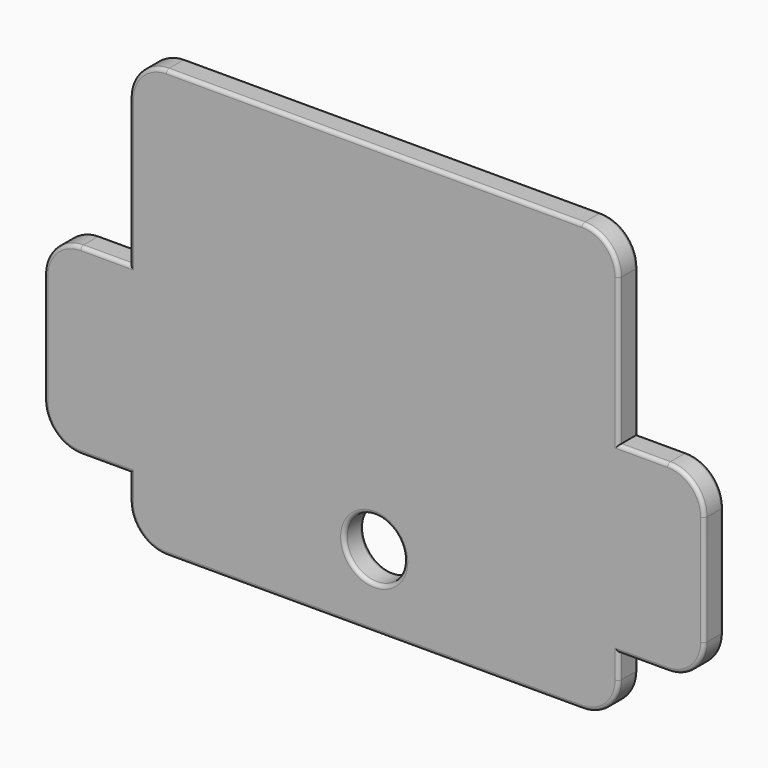
from build123d import *

# Parameters (mm, degrees)
F0_R     = 24.5
F1_DEPTH = 20
F2_R     = 3


with BuildPart() as f1:
    # F0 (on Front) → F1 (new body)
    with BuildSketch(Plane.XZ):
        with BuildLine():
            ThreePointArc((170, -165), (191.213203, -156.213203), (200, -135))
            Line((200, -135), (200, -115))
            Line((200, -115), (240, -115))
            ThreePointArc((240, -115), (261.213203, -106.213203), (270, -85))
            Line((270, -85), (270, 5))
            ThreePointArc((270, 5), (261.213203, 26.213203), (240, 35))
            Line((240, 35), (200, 35))
            Line((200, 35), (200, 155))
            ThreePointArc((200, 155), (191.213203, 176.213203), (170, 185))
            Line((170, 185), (0, 185))
            Line((0, 185), (-170, 185))
            ThreePointArc((-170, 185), (-191.213203, 176.213203), (-200, 155))
            Line((-200, 155), (-200, 35))
            Line((-200, 35), (-240, 35))
            ThreePointArc((-240, 35), (-261.213203, 26.213203), (-270, 5))
            Line((-270, 5), (-270, -85))
            ThreePointArc((-270, -85), (-261.213203, -106.213203), (-240, -115))
            Line((-240, -115), (-200, -115))
            Line((-200, -115), (-200, -135))
            ThreePointArc((-200, -135), (-191.213203, -156.213203), (-170, -165))
            Line((-170, -165), (0, -165))
            Line((0, -165), (170, -165))
        make_face()
        with Locations((0, -105)):
            Circle(F0_R, mode=Mode.SUBTRACT)
    extrude(amount=F1_DEPTH)

    # F2
    f2_edges = [f1.edges().sort_by_distance(p)[0] for p in [
        (-261.213203, 0, 26.213203),
        (-270, 0, -40),
        (-261.213203, 0, -106.213203),
        (-220, 0, -115),
        (-200, 0, -125),
        (-191.213203, 0, -156.213203),
        (0, 0, -165),
        (191.213203, 0, -156.213203),
        (200, 0, -125),
        (220, 0, -115),
        (261.213203, 0, -106.213203),
        (270, 0, -40),
        (261.213203, 0, 26.213203),
        (220, 0, 35),
        (200, 0, 95),
        (191.213203, 0, 176.213203),
        (0, 0, 185),
        (-191.213203, 0, 176.213203),
        (-200, 0, 95),
        (-220, 0, 35),
        (-24.5, 0, -105),
        (-261.213203, -20, 26.213203),
        (-270, -20, -40),
        (-261.213203, -20, -106.213203),
        (-220, -20, -115),
        (-200, -20, -125),
        (-191.213203, -20, -156.213203),
        (0, -20, -165),
        (191.213203, -20, -156.213203),
        (200, -20, -125),
        (220, -20, -115),
        (261.213203, -20, -106.213203),
        (270, -20, -40),
        (261.213203, -20, 26.213203),
        (220, -20, 35),
        (200, -20, 95),
        (191.213203, -20, 176.213203),
        (0, -20, 185),
        (-191.213203, -20, 176.213203),
        (-200, -20, 95),
        (-220, -20, 35),
        (-24.5, -20, -105),
    ]]
    fillet(f2_edges, radius=F2_R)


solid = f1.part
